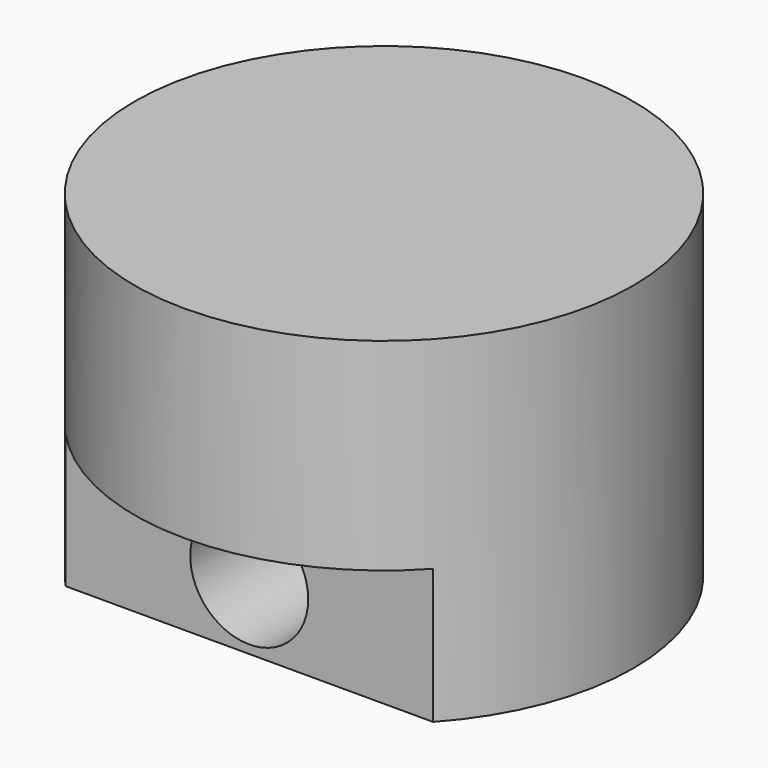
from build123d import *

# Parameters (mm, degrees)
F0_R     = 18.796
F1_DEPTH = 25.4
F3_DEPTH = 10.16
F5_DEPTH = 19.05
F6_R     = 4.445
F7_DEPTH = 31.497


with BuildPart() as f1:
    # F0 (on Top) → F1 (new body)
    with BuildSketch(Plane.XY):
        Circle(F0_R)
    extrude(amount=-F1_DEPTH)

    # F2 (on face) → F3 (cut)
    with BuildSketch(Plane(origin=(0, 0, -25.4), x_dir=(1, 0, 0), z_dir=(0, 0, -1))):
        with BuildLine():
            Line((13.856393, -12.7), (-13.856393, -12.7))
            ThreePointArc((-13.856393, -12.7), (0, -18.796), (13.856393, -12.7))
        make_face()
        with BuildLine():
            Line((-13.856393, 12.7), (13.856393, 12.7))
            ThreePointArc((13.856393, 12.7), (0, 18.796), (-13.856393, 12.7))
        make_face()
    extrude(amount=-F3_DEPTH, mode=Mode.SUBTRACT)

    # F4 (on face) → F5 (cut)
    with BuildSketch(Plane(origin=(0, 0, -25.4), x_dir=(1, 0, 0), z_dir=(0, 0, -1))):
        with BuildLine():
            Line((-6.35, 9.525), (-12.381035, 9.525))
            ThreePointArc((-12.381035, 9.525), (-15.621, 0), (-12.381035, -9.525))
            Line((-12.381035, -9.525), (-6.35, -9.525))
            Line((-6.35, -9.525), (-6.35, -3.81))
            Line((-6.35, -3.81), (6.35, -3.81))
            Line((6.35, -3.81), (6.35, -9.525))
            Line((6.35, -9.525), (12.381035, -9.525))
            ThreePointArc((12.381035, -9.525), (15.621, 0), (12.381035, 9.525))
            Line((12.381035, 9.525), (6.35, 9.525))
            Line((6.35, 9.525), (6.35, 3.81))
            Line((6.35, 3.81), (-6.35, 3.81))
            Line((-6.35, 3.81), (-6.35, 9.525))
        make_face()
    extrude(amount=-F5_DEPTH, mode=Mode.SUBTRACT)

    # F6 (on face) → F7 (cut, through all)
    with BuildSketch(Plane.XZ.offset(12.7)):
        with Locations((0, -20.32)):
            Circle(F6_R)
    extrude(amount=-F7_DEPTH, mode=Mode.SUBTRACT)


solid = f1.part
